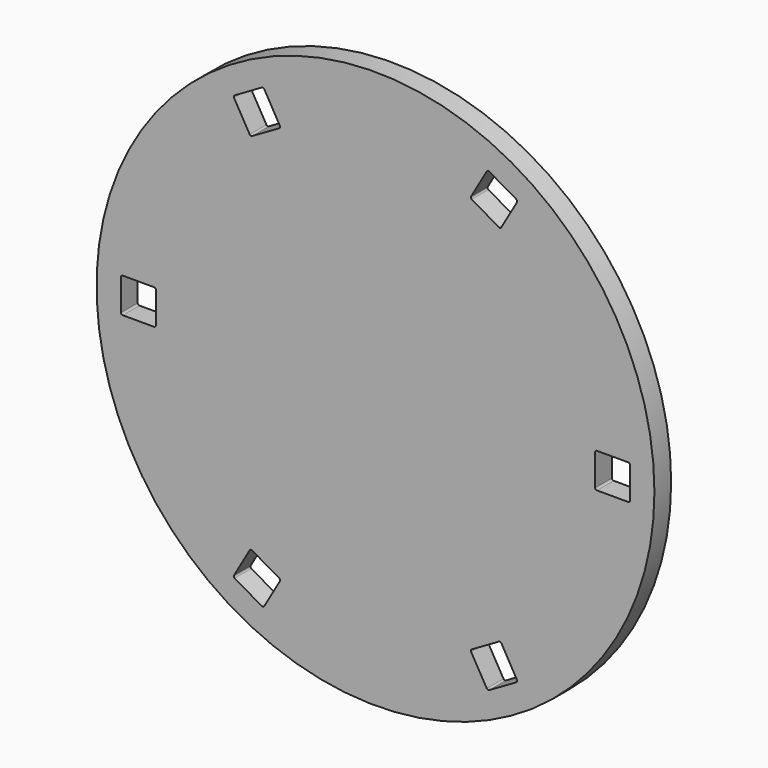
from build123d import *

# Parameters (mm, degrees)
F0_R     = 80
F1_DEPTH = 6
F3_DEPTH = 6.001


with BuildPart() as f1:
    # F0 (on Front) → F1 (new body)
    with BuildSketch(Plane.XZ):
        Circle(F0_R)
    extrude(amount=F1_DEPTH)

    # F2 (on face) → F3 (cut, through all)
    with BuildSketch(Plane.XZ.offset(6)):
        with BuildLine():
            Line((-63.5, 5), (-72.5, 5))
            ThreePointArc((-72.5, 5), (-72.853553, 4.853553), (-73, 4.5))
            Line((-73, 4.5), (-73, -4.5))
            ThreePointArc((-73, -4.5), (-72.853553, -4.853553), (-72.5, -5))
            Line((-72.5, -5), (-63.5, -5))
            ThreePointArc((-63.5, -5), (-63.146447, -4.853553), (-63, -4.5))
            Line((-63, -4.5), (-63, 4.5))
            ThreePointArc((-63, 4.5), (-63.146447, 4.853553), (-63.5, 5))
        make_face()
        with BuildLine():
            ThreePointArc((-32.602886, -65.469854), (-32.223476, -65.519805), (-31.919873, -65.286842))
            Line((-31.919873, -65.286842), (-27.419873, -57.492613))
            ThreePointArc((-27.419873, -57.492613), (-27.369923, -57.113204), (-27.602886, -56.8096))
            Line((-27.602886, -56.8096), (-35.397114, -52.3096))
            ThreePointArc((-35.397114, -52.3096), (-35.776524, -52.25965), (-36.080127, -52.492613))
            Line((-36.080127, -52.492613), (-40.580127, -60.286842))
            ThreePointArc((-40.580127, -60.286842), (-40.630077, -60.666251), (-40.397114, -60.969854))
            Line((-40.397114, -60.969854), (-32.602886, -65.469854))
        make_face()
        with BuildLine():
            ThreePointArc((40.397114, -60.969854), (40.630077, -60.666251), (40.580127, -60.286842))
            Line((40.580127, -60.286842), (36.080127, -52.492613))
            ThreePointArc((36.080127, -52.492613), (35.776524, -52.25965), (35.397114, -52.3096))
            Line((35.397114, -52.3096), (27.602886, -56.8096))
            ThreePointArc((27.602886, -56.8096), (27.369923, -57.113204), (27.419873, -57.492613))
            Line((27.419873, -57.492613), (31.919873, -65.286842))
            ThreePointArc((31.919873, -65.286842), (32.223476, -65.519805), (32.602886, -65.469854))
            Line((32.602886, -65.469854), (40.397114, -60.969854))
        make_face()
        with BuildLine():
            ThreePointArc((73, 4.5), (72.853553, 4.853553), (72.5, 5))
            Line((72.5, 5), (63.5, 5))
            ThreePointArc((63.5, 5), (63.146447, 4.853553), (63, 4.5))
            Line((63, 4.5), (63, -4.5))
            ThreePointArc((63, -4.5), (63.146447, -4.853553), (63.5, -5))
            Line((63.5, -5), (72.5, -5))
            ThreePointArc((72.5, -5), (72.853553, -4.853553), (73, -4.5))
            Line((73, -4.5), (73, 4.5))
        make_face()
        with BuildLine():
            ThreePointArc((32.602886, 65.469854), (32.223476, 65.519805), (31.919873, 65.286842))
            Line((31.919873, 65.286842), (27.419873, 57.492613))
            ThreePointArc((27.419873, 57.492613), (27.369923, 57.113204), (27.602886, 56.8096))
            Line((27.602886, 56.8096), (35.397114, 52.3096))
            ThreePointArc((35.397114, 52.3096), (35.776524, 52.25965), (36.080127, 52.492613))
            Line((36.080127, 52.492613), (40.580127, 60.286842))
            ThreePointArc((40.580127, 60.286842), (40.630077, 60.666251), (40.397114, 60.969854))
            Line((40.397114, 60.969854), (32.602886, 65.469854))
        make_face()
        with BuildLine():
            ThreePointArc((-40.397114, 60.969854), (-40.630077, 60.666251), (-40.580127, 60.286842))
            Line((-40.580127, 60.286842), (-36.080127, 52.492613))
            ThreePointArc((-36.080127, 52.492613), (-35.776524, 52.25965), (-35.397114, 52.3096))
            Line((-35.397114, 52.3096), (-27.602886, 56.8096))
            ThreePointArc((-27.602886, 56.8096), (-27.369923, 57.113204), (-27.419873, 57.492613))
            Line((-27.419873, 57.492613), (-31.919873, 65.286842))
            ThreePointArc((-31.919873, 65.286842), (-32.223476, 65.519805), (-32.602886, 65.469854))
            Line((-32.602886, 65.469854), (-40.397114, 60.969854))
        make_face()
    extrude(amount=-F3_DEPTH, mode=Mode.SUBTRACT)


solid = f1.part
